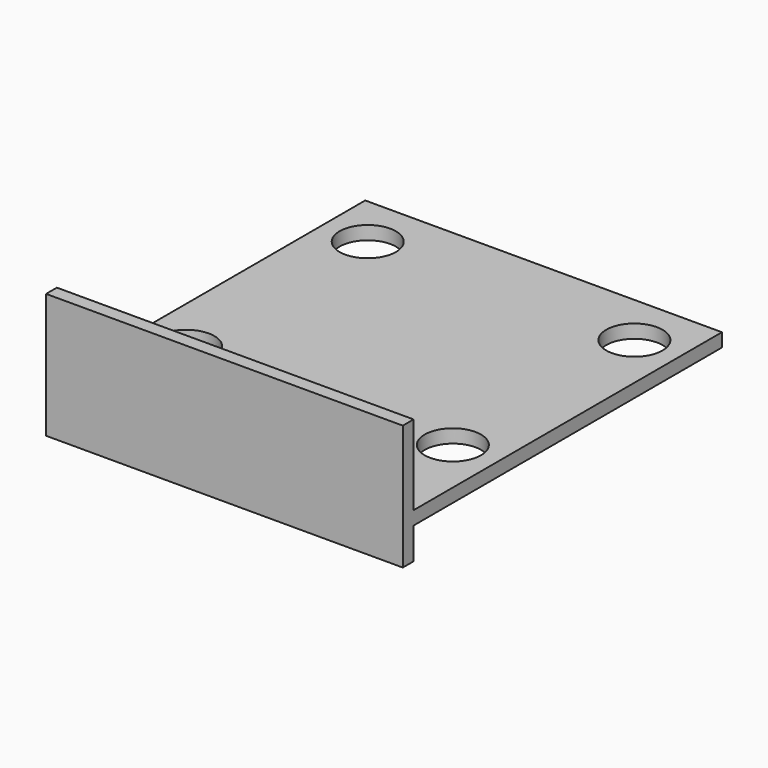
from build123d import *

# Parameters (mm, degrees)
F0_W     = 40.2463
F0_H     = 43.4848
F1_DEPTH = 1.524
F2_W     = 40.2463
F2_H     = 14.097
F3_DEPTH = 1.524
F4_R     = 3.175
F5_DEPTH = 25.4


with BuildPart() as f1:
    # F0 (on Top) → F1 (new body)
    with BuildSketch(Plane.XY):
        Rectangle(F0_W, F0_H)
    extrude(amount=F1_DEPTH)

    # F2 (on face) → F3 (join)
    with BuildSketch(Plane.XZ.offset(21.7424)):
        with Locations((0, 3.4925)):
            Rectangle(F2_W, F2_H)
    extrude(amount=F3_DEPTH)

    # F4 (on face) → F5 (cut)
    with BuildSketch(Plane.XY.offset(1.524)):
        with Locations((15.04315, 15.748)):
            Circle(F4_R)
        with Locations((15.04315, -9.8552)):
            Circle(F4_R)
        with Locations((-15.04315, 15.748)):
            Circle(F4_R)
        with Locations((-15.04315, -9.8552)):
            Circle(F4_R)
    extrude(amount=-F5_DEPTH, mode=Mode.SUBTRACT)


solid = f1.part
